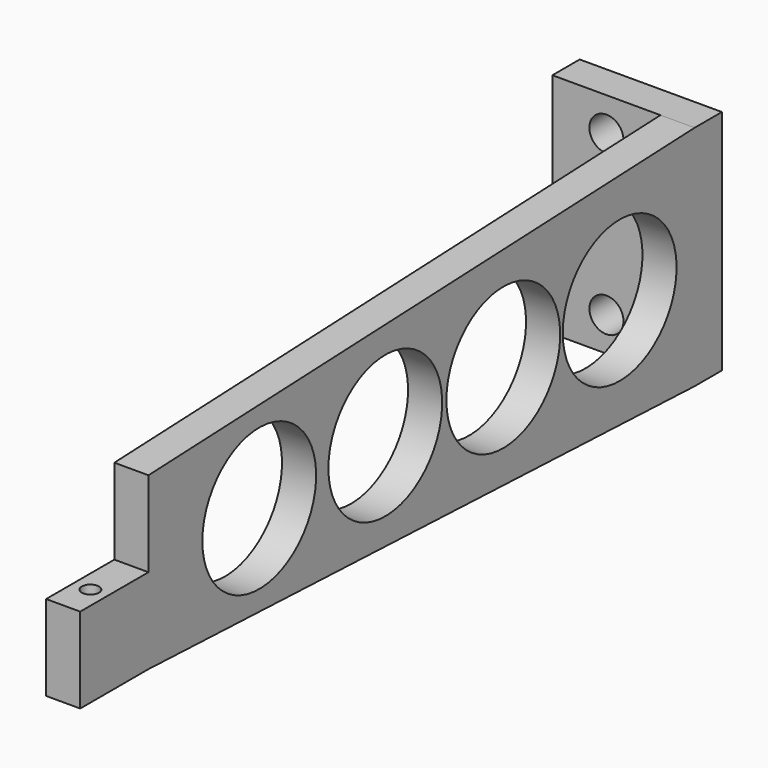
from build123d import *

# Parameters (mm, degrees)
F0_W     = 25
F0_H     = 40
F0_R     = 3
F1_DEPTH = 6
F2_W     = 6
F2_H     = 40
F3_DEPTH = 120
F4_R     = 12.5
F5_DEPTH = 25.4
F6_W     = 6
F6_H     = 15
F7_DEPTH = 15
F8_R     = 1.5
F9_DEPTH = 20.001


with BuildPart() as f1:
    # F0 (on Front) → F1 (new body)
    with BuildSketch(Plane.XZ):
        Rectangle(F0_W, F0_H)
        with Locations((-3, -14)):
            Circle(F0_R, mode=Mode.SUBTRACT)
        with Locations((-3, 14)):
            Circle(F0_R, mode=Mode.SUBTRACT)
    extrude(amount=F1_DEPTH)

    # F2 (on face) → F3 (join)
    with BuildSketch(Plane.XZ.offset(6)):
        with Locations((9.5, 0)):
            Rectangle(F2_W, F2_H)
    extrude(amount=F3_DEPTH)

    # F4 (on face) → F5 (cut)
    with BuildSketch(Plane(origin=(6.5, 0, 0), x_dir=(0, -1, 0), z_dir=(-1, 0, 0))):
        Polygon((126, 20), (6, 20), (126, 15), align=None)
        Polygon((126, -15), (6, -20), (126, -20), align=None)
        with Locations((101.661727, 0)):
            Circle(F4_R)
        with Locations((73.966578, 0)):
            Circle(F4_R)
        with Locations((48.03938, 0)):
            Circle(F4_R)
        with Locations((22.46337, 0)):
            Circle(F4_R)
    extrude(amount=-F5_DEPTH, mode=Mode.SUBTRACT)

    # F6 (on face) → F7 (join)
    with BuildSketch(Plane.XZ.offset(126)):
        with Locations((9.5, -7.5)):
            Rectangle(F6_W, F6_H)
    extrude(amount=F7_DEPTH)

    # F8 (on face) → F9 (cut, through all)
    with BuildSketch(Plane.XY):
        with Locations((9.5, -135)):
            Circle(F8_R)
    extrude(amount=-F9_DEPTH, mode=Mode.SUBTRACT)


solid = f1.part
